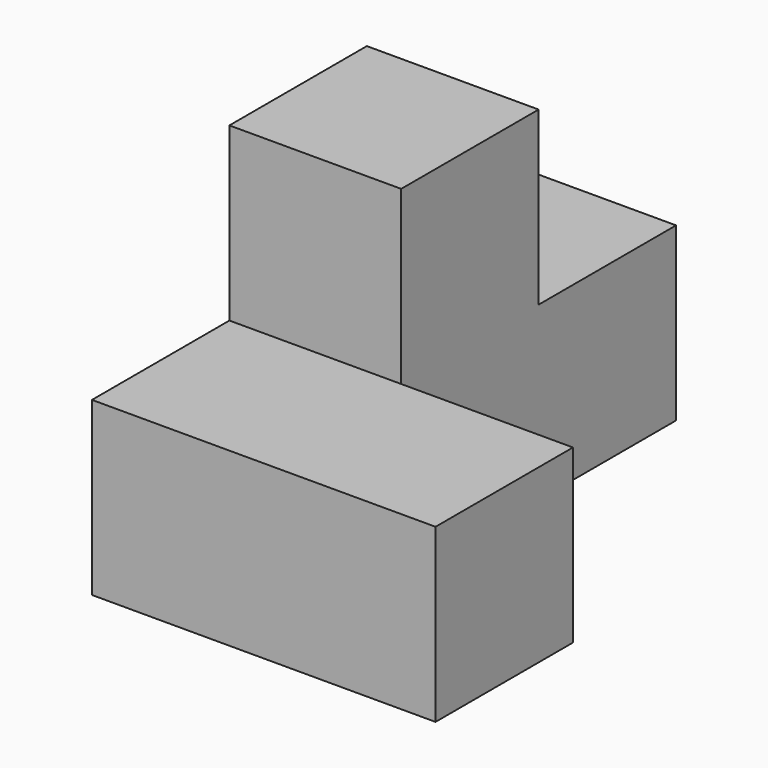
from build123d import *

# Parameters (mm, degrees)
F0_W     = 19.05
F0_H     = 19.05
F1_DEPTH = 19.05
F2_DEPTH = 38.1


with BuildPart() as f1:
    # F0 (on Right) → F1 (new body)
    with BuildSketch(Plane.YZ):
        Rectangle(F0_W, F0_H)
        with Locations((0, 19.05)):
            Rectangle(F0_W, F0_H)
        with Locations((19.05, 0)):
            Rectangle(F0_W, F0_H)
    extrude(amount=F1_DEPTH)

    # F0 (on Right) → F2 (join)
    with BuildSketch(Plane.YZ):
        with Locations((-19.05, 0)):
            Rectangle(F0_W, F0_H)
    extrude(amount=F2_DEPTH)


solid = f1.part
